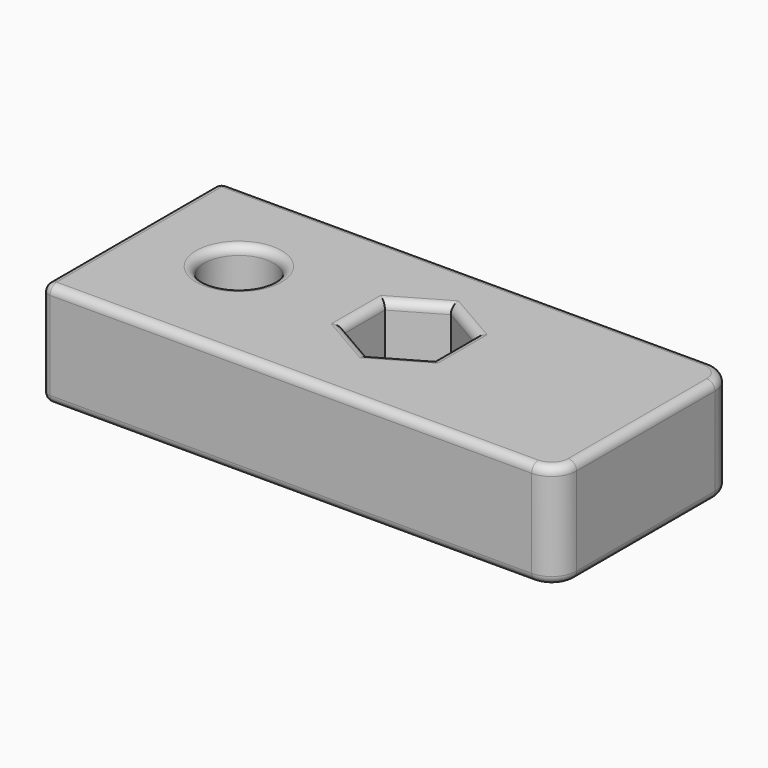
from build123d import *

# Parameters (mm, degrees)
F0_R     = 20.731568
F1_DEPTH = 63
F2_R     = 5


with BuildPart() as f1:
    # F0 (on Top) → F1 (new body)
    with BuildSketch(Plane.XY):
        with BuildLine():
            Line((150.846626, 63.10758), (-144.081607, 63.10758))
            Line((-144.081607, 63.10758), (-144.081607, -71.031183))
            Line((-144.081607, -71.031183), (150.846626, -71.031183))
            ThreePointArc((150.846626, -71.031183), (161.453227, -66.637785), (165.846626, -56.031183))
            Line((165.846626, -56.031183), (165.846626, 48.10758))
            ThreePointArc((165.846626, 48.10758), (161.453227, 58.714182), (150.846626, 63.10758))
        make_face()
        with Locations((-82.2597, 0)):
            Circle(F0_R, mode=Mode.SUBTRACT)
        Polygon((20.28074, 31.284193), (47.373645, 15.642096), (47.373645, -15.642096), (20.28074, -31.284193), (-6.812166, -15.642096), (-6.812166, 15.642096), align=None, mode=Mode.SUBTRACT)
    extrude(amount=F1_DEPTH)

    # F2
    f2_edges = [f1.edges().sort_by_distance(p)[0] for p in [
        (3.382509, 63.10758, 63),
        (-144.081607, -3.961802, 63),
        (3.382509, -71.031183, 63),
        (161.453227, -66.637785, 63),
        (165.846626, -3.961802, 63),
        (161.453227, 58.714182, 63),
        (-102.991267, 0, 63),
        (6.734287, 23.463144, 63),
        (33.827192, 23.463144, 63),
        (47.373645, 0, 63),
        (33.827192, -23.463144, 63),
        (6.734287, -23.463144, 63),
        (-6.812166, 0, 63),
        (-144.081607, -71.031183, 31.5),
        (-144.081607, 63.10758, 31.5),
        (3.382509, -71.031183, 0),
        (-144.081607, -3.961802, 0),
        (-61.528132, 0, 31.5),
        (-102.991267, 0, 0),
    ]]
    fillet(f2_edges, radius=F2_R)


solid = f1.part
